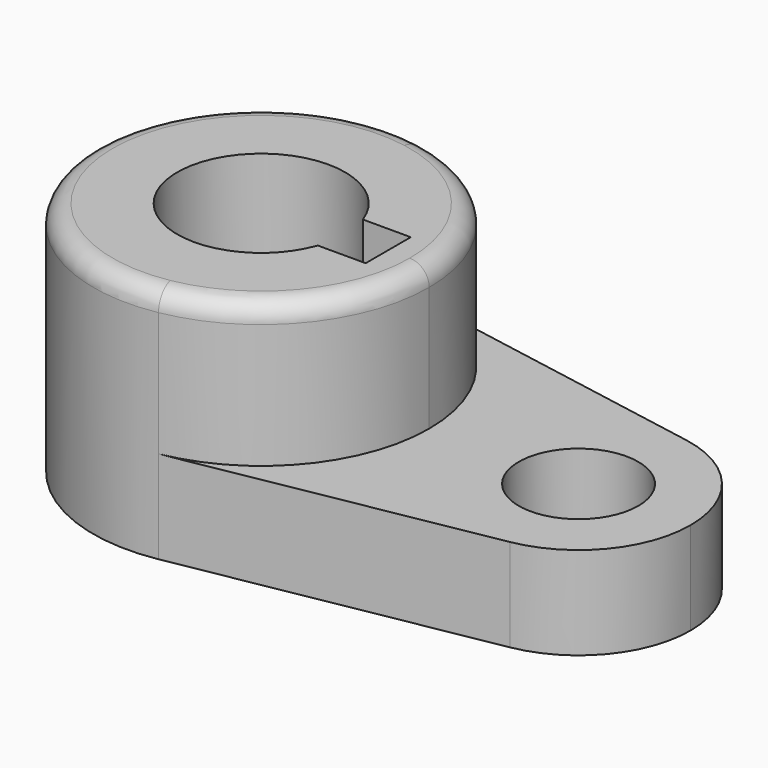
from build123d import *

# Parameters (mm, degrees)
F0_R     = 10.16
F1_DEPTH = 15.7734
F2_DEPTH = 24.4602
F3_R     = 3.302


with BuildPart() as f1:
    # F0 (on Top) → F1 (new body)
    with BuildSketch(Plane.XY):
        with BuildLine():
            ThreePointArc((-23.198551, -28.126541), (-6.325173, -18.336262), (0.333802, 0))
            ThreePointArc((0.333802, 0), (-6.325173, 18.336262), (-23.198551, 28.126541))
            ThreePointArc((-23.198551, 28.126541), (-56.816198, 0), (-23.198551, -28.126541))
        make_face()
        with BuildLine():
            ThreePointArc((-14.781716, -4.793226), (-42.528698, 0), (-14.781716, 4.793226))
            Line((-14.781716, 4.793226), (-6.636774, 4.793226))
            Line((-6.636774, 4.793226), (-6.636774, -4.793226))
            Line((-6.636774, -4.793226), (-14.781716, -4.793226))
        make_face(mode=Mode.SUBTRACT)
        with BuildLine():
            ThreePointArc((-23.198551, 28.126541), (-6.325173, 18.336262), (0.333802, 0))
            ThreePointArc((0.333802, 0), (-6.325173, -18.336262), (-23.198551, -28.126541))
            Line((-23.198551, -28.126541), (29.095567, -18.751028))
            ThreePointArc((29.095567, -18.751028), (6.683802, 0), (29.095567, 18.751028))
            Line((29.095567, 18.751028), (-23.198551, 28.126541))
        make_face()
        with BuildLine():
            ThreePointArc((44.783802, 0), (40.344485, 12.224174), (29.095567, 18.751028))
            ThreePointArc((29.095567, 18.751028), (6.683802, 0), (29.095567, -18.751028))
            ThreePointArc((29.095567, -18.751028), (40.344485, -12.224174), (44.783802, 0))
        make_face()
        with Locations((25.733802, 0)):
            Circle(F0_R, mode=Mode.SUBTRACT)
        with BuildLine():
            Line((-6.636774, 4.793226), (-14.781716, 4.793226))
            ThreePointArc((-14.781716, 4.793226), (-42.528698, 0), (-14.781716, -4.793226))
            Line((-14.781716, -4.793226), (-6.636774, -4.793226))
            Line((-6.636774, -4.793226), (-6.636774, 4.793226))
        make_face()
    extrude(amount=-F1_DEPTH)

    # F0 (on Top) → F2 (join)
    with BuildSketch(Plane.XY):
        with BuildLine():
            ThreePointArc((-23.198551, -28.126541), (-6.325173, -18.336262), (0.333802, 0))
            ThreePointArc((0.333802, 0), (-6.325173, 18.336262), (-23.198551, 28.126541))
            ThreePointArc((-23.198551, 28.126541), (-56.816198, 0), (-23.198551, -28.126541))
        make_face()
        with BuildLine():
            ThreePointArc((-14.781716, -4.793226), (-42.528698, 0), (-14.781716, 4.793226))
            Line((-14.781716, 4.793226), (-6.636774, 4.793226))
            Line((-6.636774, 4.793226), (-6.636774, -4.793226))
            Line((-6.636774, -4.793226), (-14.781716, -4.793226))
        make_face(mode=Mode.SUBTRACT)
    extrude(amount=F2_DEPTH)

    # F3
    f3_edges = [f1.edges().sort_by_distance(p)[0] for p in [
        (-33.283845, 28.126541, 24.4602),
    ]]
    fillet(f3_edges, radius=F3_R)


solid = f1.part
